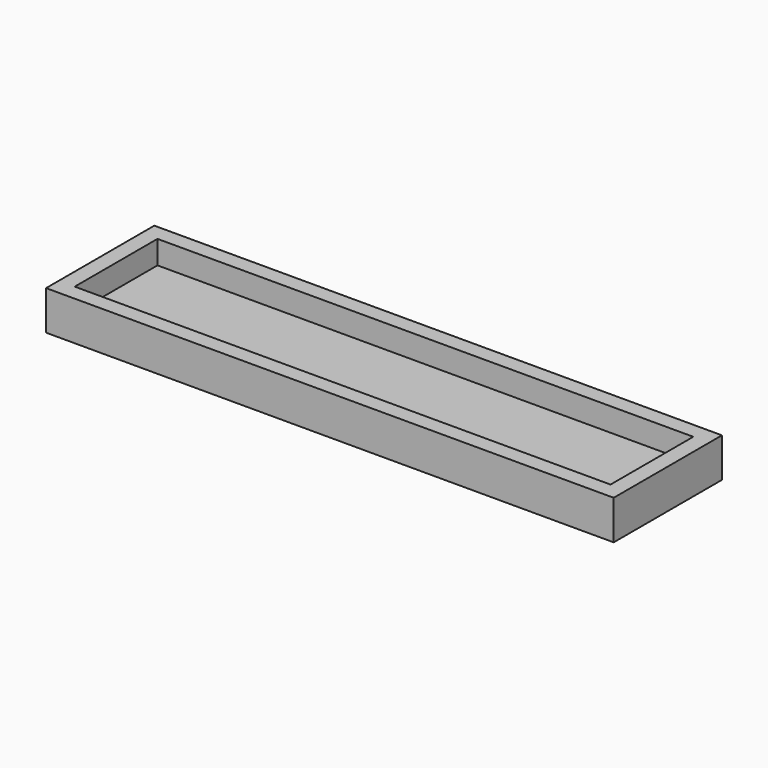
from build123d import *

# Parameters (mm, degrees)
F0_W     = 107
F0_H     = 25.5
F0_W_2   = 101
F0_H_2   = 19.5
F1_DEPTH = 3
F2_DEPTH = 4.4


with BuildPart() as f1:
    # F0 (on Top) → F1 (new body)
    with BuildSketch(Plane.XY):
        Rectangle(F0_W, F0_H)
        Rectangle(F0_W_2, F0_H_2, mode=Mode.SUBTRACT)
        Rectangle(F0_W_2, F0_H_2)
    extrude(amount=-F1_DEPTH)

    # F0 (on Top) → F2 (join)
    with BuildSketch(Plane.XY):
        Rectangle(F0_W, F0_H)
        Rectangle(F0_W_2, F0_H_2, mode=Mode.SUBTRACT)
    extrude(amount=F2_DEPTH)


solid = f1.part
